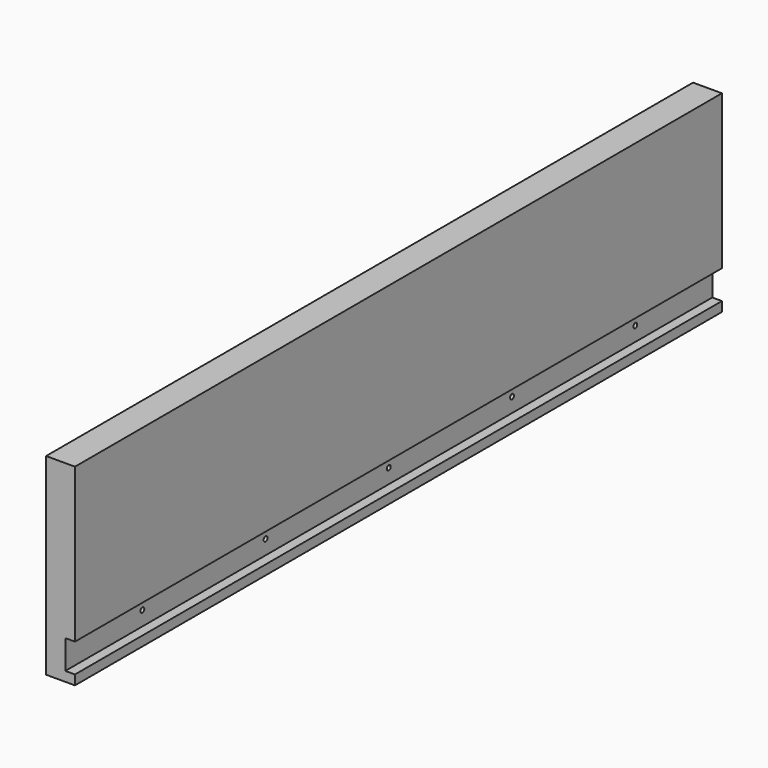
from build123d import *

# Parameters (mm, degrees)
F0_W     = 533.4
F0_H     = 127
F1_DEPTH = 19.05
F2_W     = 533.4
F2_H     = 19.05
F3_DEPTH = 6.35
F4_R     = 1.5875
F5_DEPTH = 19.051


with BuildPart() as f1:
    # F0 (on Right) → F1 (new body)
    with BuildSketch(Plane.YZ):
        with Locations((266.7, -63.5)):
            Rectangle(F0_W, F0_H)
    extrude(amount=-F1_DEPTH)

    # F2 (on Right) → F3 (cut)
    with BuildSketch(Plane.YZ):
        with Locations((266.7, -111.125)):
            Rectangle(F2_W, F2_H)
    extrude(amount=-F3_DEPTH, mode=Mode.SUBTRACT)

    # F4 (on Right) → F5 (cut, through all)
    with BuildSketch(Plane.YZ):
        with Locations((63.5, -111.125)):
            Circle(F4_R)
        with Locations((165.1, -111.125)):
            Circle(F4_R)
        with Locations((266.7, -111.125)):
            Circle(F4_R)
        with Locations((368.3, -111.125)):
            Circle(F4_R)
        with Locations((469.9, -111.125)):
            Circle(F4_R)
    extrude(amount=-F5_DEPTH, mode=Mode.SUBTRACT)


solid = f1.part
